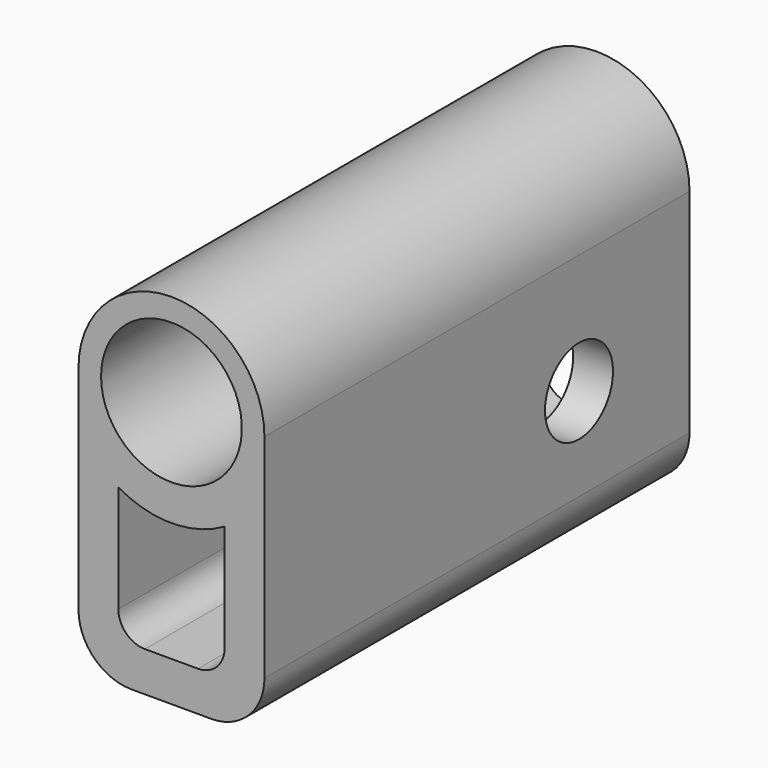
from build123d import *

# Parameters (mm, degrees)
F1_DEPTH = 20
F2_R     = 2.65
F3_DEPTH = 20.001
F4_R     = 1.6
F5_DEPTH = 7.001
F6_R     = 2
F7_R     = 1


with BuildPart() as f1:
    # F0 (on Front) → F1 (new body)
    with BuildSketch(Plane.XZ):
        with BuildLine():
            Line((3.5, -10), (3.5, 0))
            ThreePointArc((3.5, 0), (0, 3.5), (-3.5, 0))
            Line((-3.5, 0), (-3.5, -10))
            Line((-3.5, -10), (3.5, -10))
        make_face()
    extrude(amount=F1_DEPTH)

    # F2 (on face) → F3 (cut, through all)
    with BuildSketch(Plane(origin=(0, 0, 0), x_dir=(-1, 0, 0), z_dir=(0, 1, 0))):
        Circle(F2_R)
        with BuildLine():
            ThreePointArc((2, -3.464102), (0, -4), (-2, -3.464102))
            Line((-2, -3.464102), (-2, -8.5))
            Line((-2, -8.5), (2, -8.5))
            Line((2, -8.5), (2, -3.464102))
        make_face()
    extrude(amount=-F3_DEPTH, mode=Mode.SUBTRACT)

    # F4 (on face) → F5 (cut, through all)
    with BuildSketch(Plane(origin=(-3.5, 0, 0), x_dir=(0, -1, 0), z_dir=(-1, 0, 0))):
        with Locations((5.2, -4.5)):
            Circle(F4_R)
    extrude(amount=-F5_DEPTH, mode=Mode.SUBTRACT)

    # F6
    f6_edges = [f1.edges().sort_by_distance(p)[0] for p in [
        (-3.5, -10, -10),
        (3.5, -10, -10),
    ]]
    fillet(f6_edges, radius=F6_R)

    # F7
    f7_edges = [f1.edges().sort_by_distance(p)[0] for p in [
        (2, -10, -8.5),
        (-2, -10, -8.5),
    ]]
    fillet(f7_edges, radius=F7_R)


solid = f1.part
